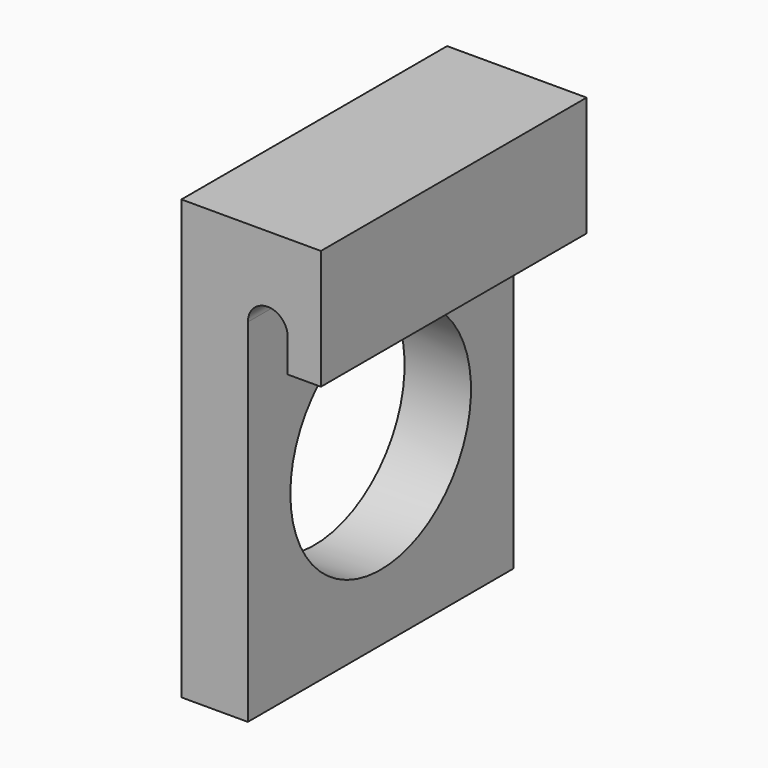
from build123d import *

# Parameters (mm, degrees)
F1_DEPTH = 25
F2_R     = 17
F3_DEPTH = 10


with BuildPart() as f1:
    # F0 (on Front) → F1 (new body, symmetric)
    with BuildSketch(Plane.XZ):
        Polygon((-10, 0), (0, 0), (0, 53), (0, 66), (-10, 66), align=None)
        with BuildLine():
            Line((0, 66), (0, 53))
            ThreePointArc((0, 53), (3, 56), (6, 53))
            Line((6, 53), (6, 66))
            Line((6, 66), (0, 66))
        make_face()
        Polygon((6, 66), (6, 53), (6, 48), (11, 48), (11, 66), align=None)
    extrude(amount=F1_DEPTH, both=True)

    # F2 (on face) → F3 (cut, through all)
    with BuildSketch(Plane(origin=(-10, 0, 0), x_dir=(0, -1, 0), z_dir=(-1, 0, 0))):
        with Locations((0, 27)):
            Circle(F2_R)
    extrude(amount=-F3_DEPTH, mode=Mode.SUBTRACT)


solid = f1.part
